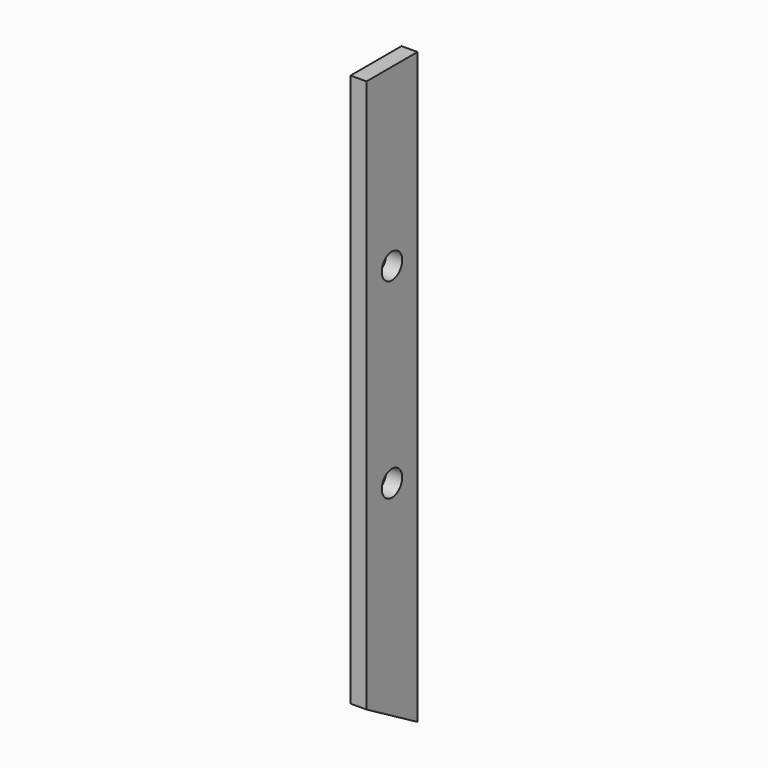
from build123d import *

# Parameters (mm, degrees)
F0_R     = 2.54
F1_DEPTH = 3.175


with BuildPart() as f1:
    # F0 (on Right) → F1 (new body)
    with BuildSketch(Plane.YZ):
        Polygon((2.176032, -36.759793), (2.176032, 80.715207), (-10.523968, 80.715207), (-10.523968, -29.427444), align=None)
        with Locations((-4.173968, 7.690207)):
            Circle(F0_R, mode=Mode.SUBTRACT)
        with Locations((-4.173968, 45.790207)):
            Circle(F0_R, mode=Mode.SUBTRACT)
    extrude(amount=F1_DEPTH)


solid = f1.part
